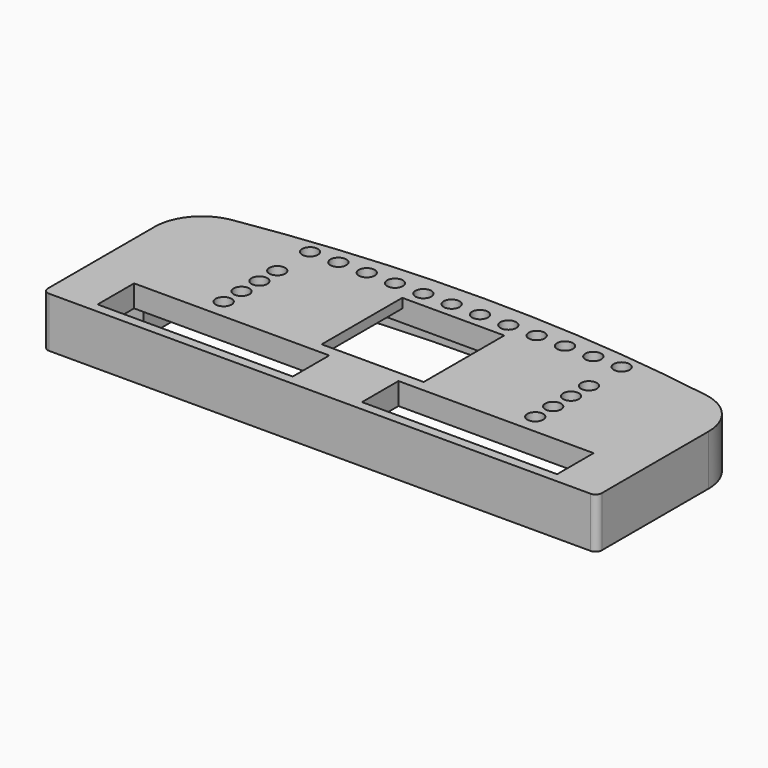
from build123d import *

# Parameters (mm, degrees)
SKETCH054_W     = 62
SKETCH054_H     = 14.5
SKETCH054_W_2   = 32.4
SKETCH054_H_2   = 32
PAD029_DEPTH    = 16
POCKET023_DEPTH = 9
SKETCH056_W     = 14
SKETCH056_H     = 32
POCKET024_DEPTH = 4
SKETCH057_R     = 2.52
POCKET025_DEPTH = 16.001
SKETCH058_R     = 1.25
POCKET026_DEPTH = 10
FILLET024_R     = 15
FILLET025_R     = 2


with BuildPart() as part:
    # Sketch054 → Pad029 (new body)
    with BuildSketch(Plane.XY):
        with BuildLine():
            Line((-88, 57), (-88, 0))
            Line((-88, 0), (88, 0))
            Line((88, 0), (88, 57))
            ThreePointArc((88, 57), (0, 65.395531), (-88, 57))
        make_face()
        with Locations((-42, 10.25)):
            Rectangle(SKETCH054_W, SKETCH054_H, mode=Mode.SUBTRACT)
        with Locations((42, 10.25)):
            Rectangle(SKETCH054_W, SKETCH054_H, mode=Mode.SUBTRACT)
        with Locations((0, 37)):
            Rectangle(SKETCH054_W_2, SKETCH054_H_2, mode=Mode.SUBTRACT)
    extrude(amount=PAD029_DEPTH)

    # Sketch055 (on Face17 of Pad029) → Pocket023 (cut)
    with BuildSketch(Plane(origin=(0, 0, 0), x_dir=(1, 0, 0), z_dir=(0, 0, -1))):
        with BuildLine():
            Line((-87, -2), (-87, -20))
            Line((-87, -20), (-72, -20))
            Line((-72, -20), (-72, -58))
            ThreePointArc((-72, -58), (0, -63.624848), (72, -58))
            Line((72, -20), (72, -58))
            Line((87, -20), (72, -20))
            Line((87, -20), (87, -2))
            Line((87, -2), (-87, -2))
        make_face()
    extrude(amount=-POCKET023_DEPTH, mode=Mode.SUBTRACT)

    # Sketch056 (on Face27 of Pocket023) → Pocket024 (cut)
    with BuildSketch(Plane(origin=(0, 0, 9), x_dir=(1, 0, 0), z_dir=(0, 0, -1))):
        with Locations((-23, -37)):
            Rectangle(SKETCH056_W, SKETCH056_H)
    extrude(amount=-POCKET024_DEPTH, mode=Mode.SUBTRACT)

    # Sketch057 (on DatumPlane) → Pocket025 (cut, through all)
    with BuildSketch(Plane.XY):
        with Locations((-49.5, 58)):
            Circle(SKETCH057_R)
        with Locations((-40.5, 58)):
            Circle(SKETCH057_R)
        with Locations((-31.5, 58)):
            Circle(SKETCH057_R)
        with Locations((-22.5, 58)):
            Circle(SKETCH057_R)
        with Locations((-13.5, 58)):
            Circle(SKETCH057_R)
        with Locations((-4.5, 58)):
            Circle(SKETCH057_R)
        with Locations((4.5, 58)):
            Circle(SKETCH057_R)
        with Locations((13.5, 58)):
            Circle(SKETCH057_R)
        with Locations((22.5, 58)):
            Circle(SKETCH057_R)
        with Locations((31.5, 58)):
            Circle(SKETCH057_R)
        with Locations((40.5, 58)):
            Circle(SKETCH057_R)
        with Locations((49.5, 58)):
            Circle(SKETCH057_R)
        with Locations((49.5, 45)):
            Circle(SKETCH057_R)
        with Locations((49.5, 37.9)):
            Circle(SKETCH057_R)
        with Locations((49.5, 30.8)):
            Circle(SKETCH057_R)
        with Locations((49.5, 23.7)):
            Circle(SKETCH057_R)
        with Locations((-49.5, 23.7)):
            Circle(SKETCH057_R)
        with Locations((-49.5, 30.8)):
            Circle(SKETCH057_R)
        with Locations((-49.5, 37.9)):
            Circle(SKETCH057_R)
        with Locations((-49.5, 45)):
            Circle(SKETCH057_R)
    extrude(amount=POCKET025_DEPTH, mode=Mode.SUBTRACT)

    # Sketch058 (on DatumPlane) → Pocket026 (cut)
    with BuildSketch(Plane.XY):
        with Locations((80, 25)):
            Circle(SKETCH058_R)
        with Locations((80, 50)):
            Circle(SKETCH058_R)
        with Locations((-80, 25)):
            Circle(SKETCH058_R)
        with Locations((-80, 50)):
            Circle(SKETCH058_R)
    extrude(amount=POCKET026_DEPTH, mode=Mode.SUBTRACT)

    # Fillet024
    fillet024_edges = [part.edges().sort_by_distance(p)[0] for p in [
        (-88, 57, 8),
        (88, 57, 8),
    ]]
    fillet(fillet024_edges, radius=FILLET024_R)

    # Fillet025
    fillet025_edges = [part.edges().sort_by_distance(p)[0] for p in [
        (-88, 0, 8),
        (88, 0, 8),
    ]]
    fillet(fillet025_edges, radius=FILLET025_R)


solid = part.part
